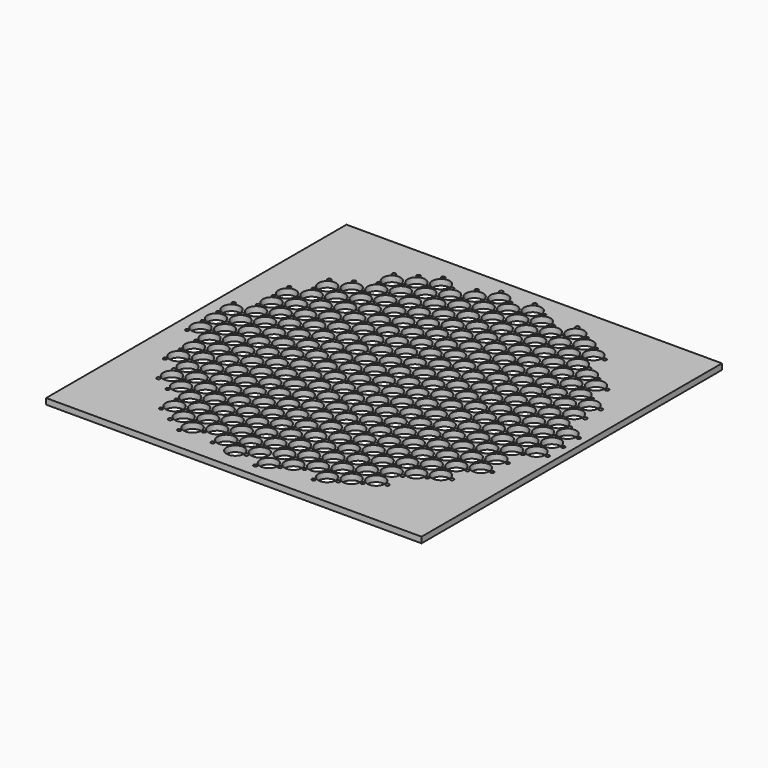
from build123d import *

# Parameters (mm, degrees)
F0_W     = 203.2
F0_H     = 203.2
F1_DEPTH = 3.175
F2_R     = 4.75
F4_DEPTH = 3.175
F3_R     = 1
F5_DEPTH = 3.176


with BuildPart() as f1:
    # F0 (on Top) → F1 (new body)
    with BuildSketch(Plane.XY):
        Rectangle(F0_W, F0_H)
    extrude(amount=-F1_DEPTH)

    # F2 (on Top) → F4 (cut)
    with BuildSketch(Plane.XY):
        Circle(F2_R)
        with Locations((0, 10.5)):
            Circle(F2_R)
        with Locations((0, 21)):
            Circle(F2_R)
        with Locations((0, 31.5)):
            Circle(F2_R)
        with Locations((0, 42)):
            Circle(F2_R)
        with Locations((0, 52.5)):
            Circle(F2_R)
        with Locations((0, 63)):
            Circle(F2_R)
        with Locations((0, 73.5)):
            Circle(F2_R)
        with Locations((0, 84)):
            Circle(F2_R)
        with Locations((0, -10.5)):
            Circle(F2_R)
        with Locations((0, -21)):
            Circle(F2_R)
        with Locations((0, -31.5)):
            Circle(F2_R)
        with Locations((0, -42)):
            Circle(F2_R)
        with Locations((0, -52.5)):
            Circle(F2_R)
        with Locations((0, -63)):
            Circle(F2_R)
        with Locations((0, -73.5)):
            Circle(F2_R)
        with Locations((0, -84)):
            Circle(F2_R)
        with Locations((9.093267, -5.25)):
            Circle(F2_R)
        with Locations((9.093267, 26.25)):
            Circle(F2_R)
        with Locations((9.093267, 5.25)):
            Circle(F2_R)
        with Locations((9.093267, -47.25)):
            Circle(F2_R)
        with Locations((9.093267, 68.25)):
            Circle(F2_R)
        with Locations((9.093267, -36.75)):
            Circle(F2_R)
        with Locations((9.093267, -15.75)):
            Circle(F2_R)
        with Locations((9.093267, -78.75)):
            Circle(F2_R)
        with Locations((9.093267, -57.75)):
            Circle(F2_R)
        with Locations((9.093267, 89.25)):
            Circle(F2_R)
        with Locations((9.093267, 57.75)):
            Circle(F2_R)
        with Locations((9.093267, -68.25)):
            Circle(F2_R)
        with Locations((9.093267, 15.75)):
            Circle(F2_R)
        with Locations((9.093267, 47.25)):
            Circle(F2_R)
        with Locations((9.093267, 36.75)):
            Circle(F2_R)
        with Locations((9.093267, 78.75)):
            Circle(F2_R)
        with Locations((9.093267, -26.25)):
            Circle(F2_R)
        with Locations((9.093267, -89.25)):
            Circle(F2_R)
        with Locations((18.186533, 10.5)):
            Circle(F2_R)
        with Locations((27.2798, -47.25)):
            Circle(F2_R)
        with Locations((27.2798, 78.75)):
            Circle(F2_R)
        with Locations((27.2798, 57.75)):
            Circle(F2_R)
        with Locations((18.186533, -84)):
            Circle(F2_R)
        with Locations((18.186533, 52.5)):
            Circle(F2_R)
        with Locations((27.2798, 26.25)):
            Circle(F2_R)
        with Locations((18.186533, 73.5)):
            Circle(F2_R)
        with Locations((18.186533, -42)):
            Circle(F2_R)
        with Locations((18.186533, -21)):
            Circle(F2_R)
        with Locations((18.186533, -31.5)):
            Circle(F2_R)
        with Locations((27.2798, 47.25)):
            Circle(F2_R)
        with Locations((27.2798, 68.25)):
            Circle(F2_R)
        with Locations((18.186533, 31.5)):
            Circle(F2_R)
        with Locations((18.186533, 63)):
            Circle(F2_R)
        with Locations((27.2798, -26.25)):
            Circle(F2_R)
        with Locations((18.186533, -63)):
            Circle(F2_R)
        with Locations((18.186533, -10.5)):
            Circle(F2_R)
        with Locations((27.2798, 36.75)):
            Circle(F2_R)
        with Locations((18.186533, -73.5)):
            Circle(F2_R)
        with Locations((27.2798, -5.25)):
            Circle(F2_R)
        with Locations((18.186533, 21)):
            Circle(F2_R)
        with Locations((27.2798, -57.75)):
            Circle(F2_R)
        with Locations((18.186533, 84)):
            Circle(F2_R)
        with Locations((27.2798, -15.75)):
            Circle(F2_R)
        with Locations((18.186533, 42)):
            Circle(F2_R)
        with Locations((27.2798, 15.75)):
            Circle(F2_R)
        with Locations((27.2798, -68.25)):
            Circle(F2_R)
        with Locations((27.2798, -36.75)):
            Circle(F2_R)
        with Locations((18.186533, 0)):
            Circle(F2_R)
        with Locations((27.2798, -78.75)):
            Circle(F2_R)
        with Locations((18.186533, -52.5)):
            Circle(F2_R)
        with Locations((27.2798, 5.25)):
            Circle(F2_R)
        with Locations((36.373067, 10.5)):
            Circle(F2_R)
        with Locations((45.466334, -47.25)):
            Circle(F2_R)
        with Locations((45.466334, 78.75)):
            Circle(F2_R)
        with Locations((45.466334, 57.75)):
            Circle(F2_R)
        with Locations((36.373067, -84)):
            Circle(F2_R)
        with Locations((36.373067, 52.5)):
            Circle(F2_R)
        with Locations((45.466334, 26.25)):
            Circle(F2_R)
        with Locations((36.373067, 73.5)):
            Circle(F2_R)
        with Locations((36.373067, -42)):
            Circle(F2_R)
        with Locations((36.373067, -21)):
            Circle(F2_R)
        with Locations((36.373067, -31.5)):
            Circle(F2_R)
        with Locations((45.466334, 47.25)):
            Circle(F2_R)
        with Locations((45.466334, 68.25)):
            Circle(F2_R)
        with Locations((36.373067, 31.5)):
            Circle(F2_R)
        with Locations((36.373067, 63)):
            Circle(F2_R)
        with Locations((45.466334, -26.25)):
            Circle(F2_R)
        with Locations((36.373067, -63)):
            Circle(F2_R)
        with Locations((36.373067, -10.5)):
            Circle(F2_R)
        with Locations((45.466334, 36.75)):
            Circle(F2_R)
        with Locations((36.373067, -73.5)):
            Circle(F2_R)
        with Locations((45.466334, -5.25)):
            Circle(F2_R)
        with Locations((36.373067, 21)):
            Circle(F2_R)
        with Locations((45.466334, -57.75)):
            Circle(F2_R)
        with Locations((36.373067, 84)):
            Circle(F2_R)
        with Locations((45.466334, -15.75)):
            Circle(F2_R)
        with Locations((36.373067, 42)):
            Circle(F2_R)
        with Locations((45.466334, 15.75)):
            Circle(F2_R)
        with Locations((45.466334, -68.25)):
            Circle(F2_R)
        with Locations((45.466334, -36.75)):
            Circle(F2_R)
        with Locations((36.373067, 0)):
            Circle(F2_R)
        with Locations((45.466334, -78.75)):
            Circle(F2_R)
        with Locations((36.373067, -52.5)):
            Circle(F2_R)
        with Locations((45.466334, 5.25)):
            Circle(F2_R)
        with Locations((54.5596, 10.5)):
            Circle(F2_R)
        with Locations((63.652867, -47.25)):
            Circle(F2_R)
        with Locations((63.652867, 57.75)):
            Circle(F2_R)
        with Locations((54.5596, 52.5)):
            Circle(F2_R)
        with Locations((63.652867, 26.25)):
            Circle(F2_R)
        with Locations((54.5596, 73.5)):
            Circle(F2_R)
        with Locations((54.5596, -42)):
            Circle(F2_R)
        with Locations((54.5596, -21)):
            Circle(F2_R)
        with Locations((54.5596, -31.5)):
            Circle(F2_R)
        with Locations((63.652867, 47.25)):
            Circle(F2_R)
        with Locations((54.5596, 31.5)):
            Circle(F2_R)
        with Locations((54.5596, 63)):
            Circle(F2_R)
        with Locations((63.652867, -26.25)):
            Circle(F2_R)
        with Locations((54.5596, -63)):
            Circle(F2_R)
        with Locations((54.5596, -10.5)):
            Circle(F2_R)
        with Locations((63.652867, 36.75)):
            Circle(F2_R)
        with Locations((54.5596, -73.5)):
            Circle(F2_R)
        with Locations((63.652867, -5.25)):
            Circle(F2_R)
        with Locations((54.5596, 21)):
            Circle(F2_R)
        with Locations((63.652867, -57.75)):
            Circle(F2_R)
        with Locations((63.652867, -15.75)):
            Circle(F2_R)
        with Locations((54.5596, 42)):
            Circle(F2_R)
        with Locations((63.652867, 15.75)):
            Circle(F2_R)
        with Locations((63.652867, -36.75)):
            Circle(F2_R)
        with Locations((54.5596, 0)):
            Circle(F2_R)
        with Locations((54.5596, -52.5)):
            Circle(F2_R)
        with Locations((63.652867, 5.25)):
            Circle(F2_R)
        with Locations((72.746134, 10.5)):
            Circle(F2_R)
        with Locations((72.746134, 52.5)):
            Circle(F2_R)
        with Locations((81.839401, 26.25)):
            Circle(F2_R)
        with Locations((72.746134, -42)):
            Circle(F2_R)
        with Locations((72.746134, -21)):
            Circle(F2_R)
        with Locations((72.746134, -31.5)):
            Circle(F2_R)
        with Locations((72.746134, 31.5)):
            Circle(F2_R)
        with Locations((81.839401, -26.25)):
            Circle(F2_R)
        with Locations((72.746134, -10.5)):
            Circle(F2_R)
        with Locations((81.839401, 36.75)):
            Circle(F2_R)
        with Locations((81.839401, -5.25)):
            Circle(F2_R)
        with Locations((72.746134, 21)):
            Circle(F2_R)
        with Locations((81.839401, -15.75)):
            Circle(F2_R)
        with Locations((72.746134, 42)):
            Circle(F2_R)
        with Locations((81.839401, 15.75)):
            Circle(F2_R)
        with Locations((81.839401, -36.75)):
            Circle(F2_R)
        with Locations((72.746134, 0)):
            Circle(F2_R)
        with Locations((72.746134, -52.5)):
            Circle(F2_R)
        with Locations((81.839401, 5.25)):
            Circle(F2_R)
        with Locations((-9.093267, 26.25)):
            Circle(F2_R)
        with Locations((-9.093267, 5.25)):
            Circle(F2_R)
        with Locations((-9.093267, -47.25)):
            Circle(F2_R)
        with Locations((-18.186533, 84)):
            Circle(F2_R)
        with Locations((-18.186533, 31.5)):
            Circle(F2_R)
        with Locations((-9.093267, 68.25)):
            Circle(F2_R)
        with Locations((-18.186533, 42)):
            Circle(F2_R)
        with Locations((-18.186533, -10.5)):
            Circle(F2_R)
        with Locations((-9.093267, -57.75)):
            Circle(F2_R)
        with Locations((-18.186533, -42)):
            Circle(F2_R)
        with Locations((-18.186533, 63)):
            Circle(F2_R)
        with Locations((-18.186533, 0)):
            Circle(F2_R)
        with Locations((-18.186533, -21)):
            Circle(F2_R)
        with Locations((-18.186533, 21)):
            Circle(F2_R)
        with Locations((-18.186533, -63)):
            Circle(F2_R)
        with Locations((-18.186533, 52.5)):
            Circle(F2_R)
        with Locations((-9.093267, -15.75)):
            Circle(F2_R)
        with Locations((-18.186533, -73.5)):
            Circle(F2_R)
        with Locations((-18.186533, 73.5)):
            Circle(F2_R)
        with Locations((-18.186533, -31.5)):
            Circle(F2_R)
        with Locations((-18.186533, -52.5)):
            Circle(F2_R)
        with Locations((-9.093267, 89.25)):
            Circle(F2_R)
        with Locations((-9.093267, -68.25)):
            Circle(F2_R)
        with Locations((-9.093267, 57.75)):
            Circle(F2_R)
        with Locations((-9.093267, 15.75)):
            Circle(F2_R)
        with Locations((-9.093267, 47.25)):
            Circle(F2_R)
        with Locations((-9.093267, 36.75)):
            Circle(F2_R)
        with Locations((-18.186533, -84)):
            Circle(F2_R)
        with Locations((-9.093267, 78.75)):
            Circle(F2_R)
        with Locations((-9.093267, -26.25)):
            Circle(F2_R)
        with Locations((-9.093267, -5.25)):
            Circle(F2_R)
        with Locations((-9.093267, -89.25)):
            Circle(F2_R)
        with Locations((-18.186533, 10.5)):
            Circle(F2_R)
        with Locations((-9.093267, -36.75)):
            Circle(F2_R)
        with Locations((-9.093267, -78.75)):
            Circle(F2_R)
        with Locations((-27.2798, 26.25)):
            Circle(F2_R)
        with Locations((-27.2798, 5.25)):
            Circle(F2_R)
        with Locations((-27.2798, -47.25)):
            Circle(F2_R)
        with Locations((-36.373067, 84)):
            Circle(F2_R)
        with Locations((-36.373067, 31.5)):
            Circle(F2_R)
        with Locations((-27.2798, 68.25)):
            Circle(F2_R)
        with Locations((-36.373067, 42)):
            Circle(F2_R)
        with Locations((-36.373067, -10.5)):
            Circle(F2_R)
        with Locations((-27.2798, -57.75)):
            Circle(F2_R)
        with Locations((-36.373067, -42)):
            Circle(F2_R)
        with Locations((-36.373067, 63)):
            Circle(F2_R)
        with Locations((-36.373067, 0)):
            Circle(F2_R)
        with Locations((-36.373067, -21)):
            Circle(F2_R)
        with Locations((-36.373067, 21)):
            Circle(F2_R)
        with Locations((-36.373067, -63)):
            Circle(F2_R)
        with Locations((-36.373067, 52.5)):
            Circle(F2_R)
        with Locations((-27.2798, -15.75)):
            Circle(F2_R)
        with Locations((-36.373067, -73.5)):
            Circle(F2_R)
        with Locations((-36.373067, 73.5)):
            Circle(F2_R)
        with Locations((-36.373067, -31.5)):
            Circle(F2_R)
        with Locations((-36.373067, -52.5)):
            Circle(F2_R)
        with Locations((-27.2798, -68.25)):
            Circle(F2_R)
        with Locations((-27.2798, 57.75)):
            Circle(F2_R)
        with Locations((-27.2798, 15.75)):
            Circle(F2_R)
        with Locations((-27.2798, 47.25)):
            Circle(F2_R)
        with Locations((-27.2798, 36.75)):
            Circle(F2_R)
        with Locations((-36.373067, -84)):
            Circle(F2_R)
        with Locations((-27.2798, 78.75)):
            Circle(F2_R)
        with Locations((-27.2798, -26.25)):
            Circle(F2_R)
        with Locations((-27.2798, -5.25)):
            Circle(F2_R)
        with Locations((-36.373067, 10.5)):
            Circle(F2_R)
        with Locations((-27.2798, -36.75)):
            Circle(F2_R)
        with Locations((-27.2798, -78.75)):
            Circle(F2_R)
        with Locations((-45.466334, 26.25)):
            Circle(F2_R)
        with Locations((-45.466334, 5.25)):
            Circle(F2_R)
        with Locations((-45.466334, -47.25)):
            Circle(F2_R)
        with Locations((-54.5596, 31.5)):
            Circle(F2_R)
        with Locations((-45.466334, 68.25)):
            Circle(F2_R)
        with Locations((-54.5596, 42)):
            Circle(F2_R)
        with Locations((-54.5596, -10.5)):
            Circle(F2_R)
        with Locations((-45.466334, -57.75)):
            Circle(F2_R)
        with Locations((-54.5596, -42)):
            Circle(F2_R)
        with Locations((-54.5596, 63)):
            Circle(F2_R)
        with Locations((-54.5596, 0)):
            Circle(F2_R)
        with Locations((-54.5596, -21)):
            Circle(F2_R)
        with Locations((-54.5596, 21)):
            Circle(F2_R)
        with Locations((-54.5596, -63)):
            Circle(F2_R)
        with Locations((-54.5596, 52.5)):
            Circle(F2_R)
        with Locations((-45.466334, -15.75)):
            Circle(F2_R)
        with Locations((-54.5596, -73.5)):
            Circle(F2_R)
        with Locations((-54.5596, 73.5)):
            Circle(F2_R)
        with Locations((-54.5596, -31.5)):
            Circle(F2_R)
        with Locations((-54.5596, -52.5)):
            Circle(F2_R)
        with Locations((-45.466334, -68.25)):
            Circle(F2_R)
        with Locations((-45.466334, 57.75)):
            Circle(F2_R)
        with Locations((-45.466334, 15.75)):
            Circle(F2_R)
        with Locations((-45.466334, 47.25)):
            Circle(F2_R)
        with Locations((-45.466334, 36.75)):
            Circle(F2_R)
        with Locations((-45.466334, 78.75)):
            Circle(F2_R)
        with Locations((-45.466334, -26.25)):
            Circle(F2_R)
        with Locations((-45.466334, -5.25)):
            Circle(F2_R)
        with Locations((-54.5596, 10.5)):
            Circle(F2_R)
        with Locations((-45.466334, -36.75)):
            Circle(F2_R)
        with Locations((-45.466334, -78.75)):
            Circle(F2_R)
        with Locations((-63.652867, 26.25)):
            Circle(F2_R)
        with Locations((-63.652867, 5.25)):
            Circle(F2_R)
        with Locations((-63.652867, -47.25)):
            Circle(F2_R)
        with Locations((-72.746134, 31.5)):
            Circle(F2_R)
        with Locations((-72.746134, 42)):
            Circle(F2_R)
        with Locations((-72.746134, -10.5)):
            Circle(F2_R)
        with Locations((-63.652867, -57.75)):
            Circle(F2_R)
        with Locations((-72.746134, -42)):
            Circle(F2_R)
        with Locations((-72.746134, 0)):
            Circle(F2_R)
        with Locations((-72.746134, -21)):
            Circle(F2_R)
        with Locations((-72.746134, 21)):
            Circle(F2_R)
        with Locations((-72.746134, 52.5)):
            Circle(F2_R)
        with Locations((-63.652867, -15.75)):
            Circle(F2_R)
        with Locations((-72.746134, -31.5)):
            Circle(F2_R)
        with Locations((-72.746134, -52.5)):
            Circle(F2_R)
        with Locations((-63.652867, 57.75)):
            Circle(F2_R)
        with Locations((-63.652867, 15.75)):
            Circle(F2_R)
        with Locations((-63.652867, 47.25)):
            Circle(F2_R)
        with Locations((-63.652867, 36.75)):
            Circle(F2_R)
        with Locations((-63.652867, -26.25)):
            Circle(F2_R)
        with Locations((-63.652867, -5.25)):
            Circle(F2_R)
        with Locations((-72.746134, 10.5)):
            Circle(F2_R)
        with Locations((-63.652867, -36.75)):
            Circle(F2_R)
        with Locations((-81.839401, -26.25)):
            Circle(F2_R)
        with Locations((-81.839401, -5.25)):
            Circle(F2_R)
        with Locations((-90.932667, 0)):
            Circle(F2_R)
        with Locations((-81.839401, 36.75)):
            Circle(F2_R)
        with Locations((-81.839401, -36.75)):
            Circle(F2_R)
        with Locations((-81.839401, 15.75)):
            Circle(F2_R)
        with Locations((-90.932667, 10.5)):
            Circle(F2_R)
        with Locations((-81.839401, 5.25)):
            Circle(F2_R)
        with Locations((-90.932667, -10.5)):
            Circle(F2_R)
        with Locations((-81.839401, -15.75)):
            Circle(F2_R)
        with Locations((-81.839401, 26.25)):
            Circle(F2_R)
        with Locations((90.932667, 10.5)):
            Circle(F2_R)
        with Locations((90.932667, -10.5)):
            Circle(F2_R)
        with Locations((90.932667, 0)):
            Circle(F2_R)
    extrude(amount=-F4_DEPTH, mode=Mode.SUBTRACT)

    # F3 (on Top) → F5 (cut, through all)
    with BuildSketch(Plane.XY):
        with Locations((6.062178, 0)):
            Circle(F3_R)
        with Locations((-3.031089, 5.25)):
            Circle(F3_R)
        with Locations((-3.031089, -5.25)):
            Circle(F3_R)
        with Locations((15.155445, 5.25)):
            Circle(F3_R)
        with Locations((24.248711, 0)):
            Circle(F3_R)
        with Locations((15.155445, -5.25)):
            Circle(F3_R)
        with Locations((33.341978, 5.25)):
            Circle(F3_R)
        with Locations((42.435245, 0)):
            Circle(F3_R)
        with Locations((33.341978, -5.25)):
            Circle(F3_R)
        with Locations((51.528512, 5.25)):
            Circle(F3_R)
        with Locations((60.621778, 0)):
            Circle(F3_R)
        with Locations((51.528512, -5.25)):
            Circle(F3_R)
        with Locations((69.715045, 5.25)):
            Circle(F3_R)
        with Locations((78.808312, 0)):
            Circle(F3_R)
        with Locations((69.715045, -5.25)):
            Circle(F3_R)
        with Locations((87.901578, 5.25)):
            Circle(F3_R)
        with Locations((96.994845, 0)):
            Circle(F3_R)
        with Locations((87.901578, -5.25)):
            Circle(F3_R)
        with Locations((-12.124356, 0)):
            Circle(F3_R)
        with Locations((-21.217622, -5.25)):
            Circle(F3_R)
        with Locations((-21.217622, 5.25)):
            Circle(F3_R)
        with Locations((-30.310889, 0)):
            Circle(F3_R)
        with Locations((-39.404156, -5.25)):
            Circle(F3_R)
        with Locations((-39.404156, 5.25)):
            Circle(F3_R)
        with Locations((-48.497423, 0)):
            Circle(F3_R)
        with Locations((-57.590689, -5.25)):
            Circle(F3_R)
        with Locations((-57.590689, 5.25)):
            Circle(F3_R)
        with Locations((-66.683956, 0)):
            Circle(F3_R)
        with Locations((-75.777223, -5.25)):
            Circle(F3_R)
        with Locations((-75.777223, 5.25)):
            Circle(F3_R)
        with Locations((-84.87049, 0)):
            Circle(F3_R)
        with Locations((-93.963756, -5.25)):
            Circle(F3_R)
        with Locations((-93.963756, 5.25)):
            Circle(F3_R)
        with Locations((-48.497423, 10.5)):
            Circle(F3_R)
        with Locations((51.528512, 15.75)):
            Circle(F3_R)
        with Locations((42.435245, 10.5)):
            Circle(F3_R)
        with Locations((33.341978, 15.75)):
            Circle(F3_R)
        with Locations((24.248711, 10.5)):
            Circle(F3_R)
        with Locations((-57.590689, 15.75)):
            Circle(F3_R)
        with Locations((-39.404156, 15.75)):
            Circle(F3_R)
        with Locations((87.901578, 15.75)):
            Circle(F3_R)
        with Locations((60.621778, 10.5)):
            Circle(F3_R)
        with Locations((-66.683956, 10.5)):
            Circle(F3_R)
        with Locations((-30.310889, 10.5)):
            Circle(F3_R)
        with Locations((-75.777223, 15.75)):
            Circle(F3_R)
        with Locations((-93.963756, 15.75)):
            Circle(F3_R)
        with Locations((96.994845, 10.5)):
            Circle(F3_R)
        with Locations((78.808312, 10.5)):
            Circle(F3_R)
        with Locations((69.715045, 15.75)):
            Circle(F3_R)
        with Locations((-84.87049, 10.5)):
            Circle(F3_R)
        with Locations((-21.217622, 15.75)):
            Circle(F3_R)
        with Locations((6.062178, 10.5)):
            Circle(F3_R)
        with Locations((-12.124356, 10.5)):
            Circle(F3_R)
        with Locations((15.155445, 15.75)):
            Circle(F3_R)
        with Locations((-3.031089, 15.75)):
            Circle(F3_R)
        with Locations((-48.497423, 21)):
            Circle(F3_R)
        with Locations((51.528512, 26.25)):
            Circle(F3_R)
        with Locations((42.435245, 21)):
            Circle(F3_R)
        with Locations((33.341978, 26.25)):
            Circle(F3_R)
        with Locations((24.248711, 21)):
            Circle(F3_R)
        with Locations((-57.590689, 26.25)):
            Circle(F3_R)
        with Locations((-39.404156, 26.25)):
            Circle(F3_R)
        with Locations((87.901578, 26.25)):
            Circle(F3_R)
        with Locations((60.621778, 21)):
            Circle(F3_R)
        with Locations((-66.683956, 21)):
            Circle(F3_R)
        with Locations((-30.310889, 21)):
            Circle(F3_R)
        with Locations((-75.777223, 26.25)):
            Circle(F3_R)
        with Locations((78.808312, 21)):
            Circle(F3_R)
        with Locations((69.715045, 26.25)):
            Circle(F3_R)
        with Locations((-84.87049, 21)):
            Circle(F3_R)
        with Locations((-21.217622, 26.25)):
            Circle(F3_R)
        with Locations((6.062178, 21)):
            Circle(F3_R)
        with Locations((-12.124356, 21)):
            Circle(F3_R)
        with Locations((15.155445, 26.25)):
            Circle(F3_R)
        with Locations((-3.031089, 26.25)):
            Circle(F3_R)
        with Locations((-48.497423, 31.5)):
            Circle(F3_R)
        with Locations((51.528512, 36.75)):
            Circle(F3_R)
        with Locations((42.435245, 31.5)):
            Circle(F3_R)
        with Locations((33.341978, 36.75)):
            Circle(F3_R)
        with Locations((24.248711, 31.5)):
            Circle(F3_R)
        with Locations((-57.590689, 36.75)):
            Circle(F3_R)
        with Locations((-39.404156, 36.75)):
            Circle(F3_R)
        with Locations((87.901578, 36.75)):
            Circle(F3_R)
        with Locations((60.621778, 31.5)):
            Circle(F3_R)
        with Locations((-66.683956, 31.5)):
            Circle(F3_R)
        with Locations((-30.310889, 31.5)):
            Circle(F3_R)
        with Locations((-75.777223, 36.75)):
            Circle(F3_R)
        with Locations((78.808312, 31.5)):
            Circle(F3_R)
        with Locations((69.715045, 36.75)):
            Circle(F3_R)
        with Locations((-84.87049, 31.5)):
            Circle(F3_R)
        with Locations((-21.217622, 36.75)):
            Circle(F3_R)
        with Locations((6.062178, 31.5)):
            Circle(F3_R)
        with Locations((-12.124356, 31.5)):
            Circle(F3_R)
        with Locations((15.155445, 36.75)):
            Circle(F3_R)
        with Locations((-3.031089, 36.75)):
            Circle(F3_R)
        with Locations((-48.497423, 42)):
            Circle(F3_R)
        with Locations((51.528512, 47.25)):
            Circle(F3_R)
        with Locations((42.435245, 42)):
            Circle(F3_R)
        with Locations((33.341978, 47.25)):
            Circle(F3_R)
        with Locations((24.248711, 42)):
            Circle(F3_R)
        with Locations((-57.590689, 47.25)):
            Circle(F3_R)
        with Locations((-39.404156, 47.25)):
            Circle(F3_R)
        with Locations((60.621778, 42)):
            Circle(F3_R)
        with Locations((-66.683956, 42)):
            Circle(F3_R)
        with Locations((-30.310889, 42)):
            Circle(F3_R)
        with Locations((-75.777223, 47.25)):
            Circle(F3_R)
        with Locations((78.808312, 42)):
            Circle(F3_R)
        with Locations((69.715045, 47.25)):
            Circle(F3_R)
        with Locations((-84.87049, 42)):
            Circle(F3_R)
        with Locations((-21.217622, 47.25)):
            Circle(F3_R)
        with Locations((6.062178, 42)):
            Circle(F3_R)
        with Locations((-12.124356, 42)):
            Circle(F3_R)
        with Locations((15.155445, 47.25)):
            Circle(F3_R)
        with Locations((-3.031089, 47.25)):
            Circle(F3_R)
        with Locations((-48.497423, 52.5)):
            Circle(F3_R)
        with Locations((51.528512, 57.75)):
            Circle(F3_R)
        with Locations((42.435245, 52.5)):
            Circle(F3_R)
        with Locations((33.341978, 57.75)):
            Circle(F3_R)
        with Locations((24.248711, 52.5)):
            Circle(F3_R)
        with Locations((-57.590689, 57.75)):
            Circle(F3_R)
        with Locations((-39.404156, 57.75)):
            Circle(F3_R)
        with Locations((60.621778, 52.5)):
            Circle(F3_R)
        with Locations((-66.683956, 52.5)):
            Circle(F3_R)
        with Locations((-30.310889, 52.5)):
            Circle(F3_R)
        with Locations((-75.777223, 57.75)):
            Circle(F3_R)
        with Locations((78.808312, 52.5)):
            Circle(F3_R)
        with Locations((69.715045, 57.75)):
            Circle(F3_R)
        with Locations((-21.217622, 57.75)):
            Circle(F3_R)
        with Locations((6.062178, 52.5)):
            Circle(F3_R)
        with Locations((-12.124356, 52.5)):
            Circle(F3_R)
        with Locations((15.155445, 57.75)):
            Circle(F3_R)
        with Locations((-3.031089, 57.75)):
            Circle(F3_R)
        with Locations((-48.497423, 63)):
            Circle(F3_R)
        with Locations((51.528512, 68.25)):
            Circle(F3_R)
        with Locations((42.435245, 63)):
            Circle(F3_R)
        with Locations((33.341978, 68.25)):
            Circle(F3_R)
        with Locations((24.248711, 63)):
            Circle(F3_R)
        with Locations((-57.590689, 68.25)):
            Circle(F3_R)
        with Locations((-39.404156, 68.25)):
            Circle(F3_R)
        with Locations((60.621778, 63)):
            Circle(F3_R)
        with Locations((-66.683956, 63)):
            Circle(F3_R)
        with Locations((-30.310889, 63)):
            Circle(F3_R)
        with Locations((-21.217622, 68.25)):
            Circle(F3_R)
        with Locations((6.062178, 63)):
            Circle(F3_R)
        with Locations((-12.124356, 63)):
            Circle(F3_R)
        with Locations((15.155445, 68.25)):
            Circle(F3_R)
        with Locations((-3.031089, 68.25)):
            Circle(F3_R)
        with Locations((-48.497423, 73.5)):
            Circle(F3_R)
        with Locations((51.528512, 78.75)):
            Circle(F3_R)
        with Locations((42.435245, 73.5)):
            Circle(F3_R)
        with Locations((33.341978, 78.75)):
            Circle(F3_R)
        with Locations((24.248711, 73.5)):
            Circle(F3_R)
        with Locations((-57.590689, 78.75)):
            Circle(F3_R)
        with Locations((-39.404156, 78.75)):
            Circle(F3_R)
        with Locations((60.621778, 73.5)):
            Circle(F3_R)
        with Locations((-30.310889, 73.5)):
            Circle(F3_R)
        with Locations((-21.217622, 78.75)):
            Circle(F3_R)
        with Locations((6.062178, 73.5)):
            Circle(F3_R)
        with Locations((-12.124356, 73.5)):
            Circle(F3_R)
        with Locations((15.155445, 78.75)):
            Circle(F3_R)
        with Locations((-3.031089, 78.75)):
            Circle(F3_R)
        with Locations((-48.497423, 84)):
            Circle(F3_R)
        with Locations((42.435245, 84)):
            Circle(F3_R)
        with Locations((33.341978, 89.25)):
            Circle(F3_R)
        with Locations((24.248711, 84)):
            Circle(F3_R)
        with Locations((-39.404156, 89.25)):
            Circle(F3_R)
        with Locations((-30.310889, 84)):
            Circle(F3_R)
        with Locations((-21.217622, 89.25)):
            Circle(F3_R)
        with Locations((6.062178, 84)):
            Circle(F3_R)
        with Locations((-12.124356, 84)):
            Circle(F3_R)
        with Locations((15.155445, 89.25)):
            Circle(F3_R)
        with Locations((-3.031089, 89.25)):
            Circle(F3_R)
        with Locations((6.062178, 94.5)):
            Circle(F3_R)
        with Locations((-12.124356, 94.5)):
            Circle(F3_R)
        with Locations((33.341978, -15.75)):
            Circle(F3_R)
        with Locations((42.435245, -10.5)):
            Circle(F3_R)
        with Locations((15.155445, -15.75)):
            Circle(F3_R)
        with Locations((-3.031089, -15.75)):
            Circle(F3_R)
        with Locations((51.528512, -15.75)):
            Circle(F3_R)
        with Locations((60.621778, -10.5)):
            Circle(F3_R)
        with Locations((-48.497423, -10.5)):
            Circle(F3_R)
        with Locations((-39.404156, -15.75)):
            Circle(F3_R)
        with Locations((-30.310889, -10.5)):
            Circle(F3_R)
        with Locations((-21.217622, -15.75)):
            Circle(F3_R)
        with Locations((87.901578, -15.75)):
            Circle(F3_R)
        with Locations((78.808312, -10.5)):
            Circle(F3_R)
        with Locations((-93.963756, -15.75)):
            Circle(F3_R)
        with Locations((96.994845, -10.5)):
            Circle(F3_R)
        with Locations((-84.87049, -10.5)):
            Circle(F3_R)
        with Locations((-57.590689, -15.75)):
            Circle(F3_R)
        with Locations((-75.777223, -15.75)):
            Circle(F3_R)
        with Locations((-66.683956, -10.5)):
            Circle(F3_R)
        with Locations((69.715045, -15.75)):
            Circle(F3_R)
        with Locations((24.248711, -10.5)):
            Circle(F3_R)
        with Locations((6.062178, -10.5)):
            Circle(F3_R)
        with Locations((-12.124356, -10.5)):
            Circle(F3_R)
        with Locations((33.341978, -26.25)):
            Circle(F3_R)
        with Locations((42.435245, -21)):
            Circle(F3_R)
        with Locations((15.155445, -26.25)):
            Circle(F3_R)
        with Locations((-3.031089, -26.25)):
            Circle(F3_R)
        with Locations((51.528512, -26.25)):
            Circle(F3_R)
        with Locations((60.621778, -21)):
            Circle(F3_R)
        with Locations((-48.497423, -21)):
            Circle(F3_R)
        with Locations((-39.404156, -26.25)):
            Circle(F3_R)
        with Locations((-30.310889, -21)):
            Circle(F3_R)
        with Locations((-21.217622, -26.25)):
            Circle(F3_R)
        with Locations((87.901578, -26.25)):
            Circle(F3_R)
        with Locations((78.808312, -21)):
            Circle(F3_R)
        with Locations((-84.87049, -21)):
            Circle(F3_R)
        with Locations((-57.590689, -26.25)):
            Circle(F3_R)
        with Locations((-75.777223, -26.25)):
            Circle(F3_R)
        with Locations((-66.683956, -21)):
            Circle(F3_R)
        with Locations((69.715045, -26.25)):
            Circle(F3_R)
        with Locations((24.248711, -21)):
            Circle(F3_R)
        with Locations((6.062178, -21)):
            Circle(F3_R)
        with Locations((-12.124356, -21)):
            Circle(F3_R)
        with Locations((33.341978, -36.75)):
            Circle(F3_R)
        with Locations((42.435245, -31.5)):
            Circle(F3_R)
        with Locations((15.155445, -36.75)):
            Circle(F3_R)
        with Locations((-3.031089, -36.75)):
            Circle(F3_R)
        with Locations((51.528512, -36.75)):
            Circle(F3_R)
        with Locations((60.621778, -31.5)):
            Circle(F3_R)
        with Locations((-48.497423, -31.5)):
            Circle(F3_R)
        with Locations((-39.404156, -36.75)):
            Circle(F3_R)
        with Locations((-30.310889, -31.5)):
            Circle(F3_R)
        with Locations((-21.217622, -36.75)):
            Circle(F3_R)
        with Locations((87.901578, -36.75)):
            Circle(F3_R)
        with Locations((78.808312, -31.5)):
            Circle(F3_R)
        with Locations((-84.87049, -31.5)):
            Circle(F3_R)
        with Locations((-57.590689, -36.75)):
            Circle(F3_R)
        with Locations((-75.777223, -36.75)):
            Circle(F3_R)
        with Locations((-66.683956, -31.5)):
            Circle(F3_R)
        with Locations((69.715045, -36.75)):
            Circle(F3_R)
        with Locations((24.248711, -31.5)):
            Circle(F3_R)
        with Locations((6.062178, -31.5)):
            Circle(F3_R)
        with Locations((-12.124356, -31.5)):
            Circle(F3_R)
        with Locations((33.341978, -47.25)):
            Circle(F3_R)
        with Locations((42.435245, -42)):
            Circle(F3_R)
        with Locations((15.155445, -47.25)):
            Circle(F3_R)
        with Locations((-3.031089, -47.25)):
            Circle(F3_R)
        with Locations((51.528512, -47.25)):
            Circle(F3_R)
        with Locations((60.621778, -42)):
            Circle(F3_R)
        with Locations((-48.497423, -42)):
            Circle(F3_R)
        with Locations((-39.404156, -47.25)):
            Circle(F3_R)
        with Locations((-30.310889, -42)):
            Circle(F3_R)
        with Locations((-21.217622, -47.25)):
            Circle(F3_R)
        with Locations((78.808312, -42)):
            Circle(F3_R)
        with Locations((-84.87049, -42)):
            Circle(F3_R)
        with Locations((-57.590689, -47.25)):
            Circle(F3_R)
        with Locations((-75.777223, -47.25)):
            Circle(F3_R)
        with Locations((-66.683956, -42)):
            Circle(F3_R)
        with Locations((69.715045, -47.25)):
            Circle(F3_R)
        with Locations((24.248711, -42)):
            Circle(F3_R)
        with Locations((6.062178, -42)):
            Circle(F3_R)
        with Locations((-12.124356, -42)):
            Circle(F3_R)
        with Locations((33.341978, -57.75)):
            Circle(F3_R)
        with Locations((42.435245, -52.5)):
            Circle(F3_R)
        with Locations((15.155445, -57.75)):
            Circle(F3_R)
        with Locations((-3.031089, -57.75)):
            Circle(F3_R)
        with Locations((51.528512, -57.75)):
            Circle(F3_R)
        with Locations((60.621778, -52.5)):
            Circle(F3_R)
        with Locations((-48.497423, -52.5)):
            Circle(F3_R)
        with Locations((-39.404156, -57.75)):
            Circle(F3_R)
        with Locations((-30.310889, -52.5)):
            Circle(F3_R)
        with Locations((-21.217622, -57.75)):
            Circle(F3_R)
        with Locations((78.808312, -52.5)):
            Circle(F3_R)
        with Locations((-57.590689, -57.75)):
            Circle(F3_R)
        with Locations((-75.777223, -57.75)):
            Circle(F3_R)
        with Locations((-66.683956, -52.5)):
            Circle(F3_R)
        with Locations((69.715045, -57.75)):
            Circle(F3_R)
        with Locations((24.248711, -52.5)):
            Circle(F3_R)
        with Locations((6.062178, -52.5)):
            Circle(F3_R)
        with Locations((-12.124356, -52.5)):
            Circle(F3_R)
        with Locations((33.341978, -68.25)):
            Circle(F3_R)
        with Locations((42.435245, -63)):
            Circle(F3_R)
        with Locations((15.155445, -68.25)):
            Circle(F3_R)
        with Locations((-3.031089, -68.25)):
            Circle(F3_R)
        with Locations((51.528512, -68.25)):
            Circle(F3_R)
        with Locations((60.621778, -63)):
            Circle(F3_R)
        with Locations((-48.497423, -63)):
            Circle(F3_R)
        with Locations((-39.404156, -68.25)):
            Circle(F3_R)
        with Locations((-30.310889, -63)):
            Circle(F3_R)
        with Locations((-21.217622, -68.25)):
            Circle(F3_R)
        with Locations((-57.590689, -68.25)):
            Circle(F3_R)
        with Locations((-66.683956, -63)):
            Circle(F3_R)
        with Locations((24.248711, -63)):
            Circle(F3_R)
        with Locations((6.062178, -63)):
            Circle(F3_R)
        with Locations((-12.124356, -63)):
            Circle(F3_R)
        with Locations((33.341978, -78.75)):
            Circle(F3_R)
        with Locations((42.435245, -73.5)):
            Circle(F3_R)
        with Locations((15.155445, -78.75)):
            Circle(F3_R)
        with Locations((-3.031089, -78.75)):
            Circle(F3_R)
        with Locations((51.528512, -78.75)):
            Circle(F3_R)
        with Locations((60.621778, -73.5)):
            Circle(F3_R)
        with Locations((-48.497423, -73.5)):
            Circle(F3_R)
        with Locations((-39.404156, -78.75)):
            Circle(F3_R)
        with Locations((-30.310889, -73.5)):
            Circle(F3_R)
        with Locations((-21.217622, -78.75)):
            Circle(F3_R)
        with Locations((24.248711, -73.5)):
            Circle(F3_R)
        with Locations((6.062178, -73.5)):
            Circle(F3_R)
        with Locations((-12.124356, -73.5)):
            Circle(F3_R)
        with Locations((33.341978, -89.25)):
            Circle(F3_R)
        with Locations((42.435245, -84)):
            Circle(F3_R)
        with Locations((15.155445, -89.25)):
            Circle(F3_R)
        with Locations((-3.031089, -89.25)):
            Circle(F3_R)
        with Locations((-48.497423, -84)):
            Circle(F3_R)
        with Locations((-39.404156, -89.25)):
            Circle(F3_R)
        with Locations((-30.310889, -84)):
            Circle(F3_R)
        with Locations((-21.217622, -89.25)):
            Circle(F3_R)
        with Locations((24.248711, -84)):
            Circle(F3_R)
        with Locations((-57.590689, -78.75)):
            Circle(F3_R)
        with Locations((-12.124356, -84)):
            Circle(F3_R)
        with Locations((6.062178, -94.5)):
            Circle(F3_R)
    extrude(amount=-F5_DEPTH, mode=Mode.SUBTRACT)


solid = f1.part
